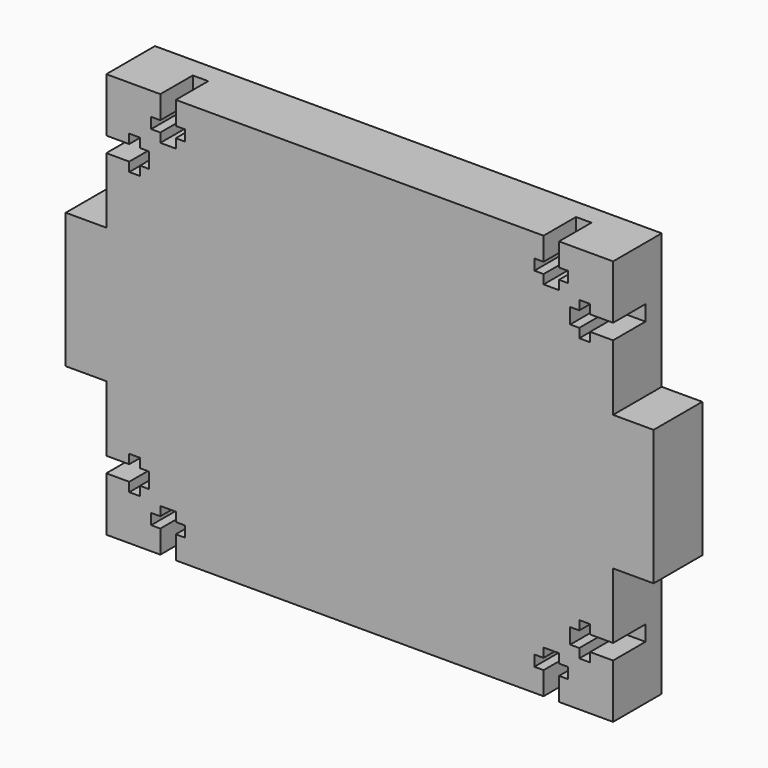
from build123d import *

# Parameters (mm, degrees)
F0_W     = 6
F0_H     = 20
F1_DEPTH = 9
F2_DEPTH = 6


with BuildPart() as f1:
    # F0 (on Front) → F1 (new body)
    with BuildSketch(Plane.XZ):
        Polygon((-37.5, -22), (-37.5, -30), (-29.5, -30), (-29.5, -26.6002), (-30.857, -26.6002), (-30.857, -25), (-29.5, -25), (-29.5, -23.65), (-27.214, -23.65), (-27.214, -25), (-25.857, -25), (-25.857, -26.6002), (-27.214, -26.6002), (-27.214, -30), (27.214, -30), (27.214, -26.6002), (25.857, -26.6002), (25.857, -25), (27.214, -25), (27.214, -23.65), (29.5, -23.65), (29.5, -25), (30.857, -25), (30.857, -26.6002), (29.5, -26.6002), (29.5, -30), (37.5, -30), (37.5, -22), (34.1002, -22), (34.1002, -23.357), (32.5, -23.357), (32.5, -22), (31.15, -22), (31.15, -19.714), (32.5, -19.714), (32.5, -18.357), (34.1002, -18.357), (34.1002, -19.714), (37.5, -19.714), (37.5, -10), (37.5, 10), (37.5, 19.714), (34.1002, 19.714), (34.1002, 18.357), (32.5, 18.357), (32.5, 19.714), (31.15, 19.714), (31.15, 22), (32.5, 22), (32.5, 23.357), (34.1002, 23.357), (34.1002, 22), (37.5, 22), (37.5, 30), (29.5, 30), (29.5, 26.6002), (30.857, 26.6002), (30.857, 25), (29.5, 25), (29.5, 23.65), (27.214, 23.65), (27.214, 25), (25.857, 25), (25.857, 26.6002), (27.214, 26.6002), (27.214, 30), (-27.214, 30), (-27.214, 26.6002), (-25.857, 26.6002), (-25.857, 25), (-27.214, 25), (-27.214, 23.65), (-29.5, 23.65), (-29.5, 25), (-30.857, 25), (-30.857, 26.6002), (-29.5, 26.6002), (-29.5, 30), (-37.5, 30), (-37.5, 22), (-34.1002, 22), (-34.1002, 23.357), (-32.5, 23.357), (-32.5, 22), (-31.15, 22), (-31.15, 19.714), (-32.5, 19.714), (-32.5, 18.357), (-34.1002, 18.357), (-34.1002, 19.714), (-37.5, 19.714), (-37.5, 10), (-37.5, -10), (-37.5, -19.714), (-34.1002, -19.714), (-34.1002, -18.357), (-32.5, -18.357), (-32.5, -19.714), (-31.15, -19.714), (-31.15, -22), (-32.5, -22), (-32.5, -23.357), (-34.1002, -23.357), (-34.1002, -22), align=None)
        Polygon((-29.5, -26.6002), (-29.5, -30), (-27.214, -30), (-27.214, -26.6002), (-25.857, -26.6002), (-25.857, -25), (-27.214, -25), (-27.214, -23.65), (-29.5, -23.65), (-29.5, -25), (-30.857, -25), (-30.857, -26.6002), align=None)
        Polygon((-37.5, -19.714), (-37.5, -22), (-34.1002, -22), (-34.1002, -23.357), (-32.5, -23.357), (-32.5, -22), (-31.15, -22), (-31.15, -19.714), (-32.5, -19.714), (-32.5, -18.357), (-34.1002, -18.357), (-34.1002, -19.714), align=None)
        Polygon((27.214, -26.6002), (27.214, -30), (29.5, -30), (29.5, -26.6002), (30.857, -26.6002), (30.857, -25), (29.5, -25), (29.5, -23.65), (27.214, -23.65), (27.214, -25), (25.857, -25), (25.857, -26.6002), align=None)
        with Locations((-40.5, 0)):
            Rectangle(F0_W, F0_H)
        Polygon((-37.5, 22), (-37.5, 19.714), (-34.1002, 19.714), (-34.1002, 18.357), (-32.5, 18.357), (-32.5, 19.714), (-31.15, 19.714), (-31.15, 22), (-32.5, 22), (-32.5, 23.357), (-34.1002, 23.357), (-34.1002, 22), align=None)
        Polygon((34.1002, -22), (37.5, -22), (37.5, -19.714), (34.1002, -19.714), (34.1002, -18.357), (32.5, -18.357), (32.5, -19.714), (31.15, -19.714), (31.15, -22), (32.5, -22), (32.5, -23.357), (34.1002, -23.357), align=None)
        with Locations((40.5, 0)):
            Rectangle(F0_W, F0_H)
        Polygon((-27.214, 30), (-29.5, 30), (-29.5, 26.6002), (-30.857, 26.6002), (-30.857, 25), (-29.5, 25), (-29.5, 23.65), (-27.214, 23.65), (-27.214, 25), (-25.857, 25), (-25.857, 26.6002), (-27.214, 26.6002), align=None)
        Polygon((34.1002, 19.714), (37.5, 19.714), (37.5, 22), (34.1002, 22), (34.1002, 23.357), (32.5, 23.357), (32.5, 22), (31.15, 22), (31.15, 19.714), (32.5, 19.714), (32.5, 18.357), (34.1002, 18.357), align=None)
        Polygon((29.5, 30), (27.214, 30), (27.214, 26.6002), (25.857, 26.6002), (25.857, 25), (27.214, 25), (27.214, 23.65), (29.5, 23.65), (29.5, 25), (30.857, 25), (30.857, 26.6002), (29.5, 26.6002), align=None)
    extrude(amount=-F1_DEPTH)

    # F0 (on Front) → F2 (cut)
    with BuildSketch(Plane.XZ):
        Polygon((-37.5, 22), (-37.5, 19.714), (-34.1002, 19.714), (-34.1002, 18.357), (-32.5, 18.357), (-32.5, 19.714), (-31.15, 19.714), (-31.15, 22), (-32.5, 22), (-32.5, 23.357), (-34.1002, 23.357), (-34.1002, 22), align=None)
        Polygon((-27.214, 30), (-29.5, 30), (-29.5, 26.6002), (-30.857, 26.6002), (-30.857, 25), (-29.5, 25), (-29.5, 23.65), (-27.214, 23.65), (-27.214, 25), (-25.857, 25), (-25.857, 26.6002), (-27.214, 26.6002), align=None)
        Polygon((-37.5, -19.714), (-37.5, -22), (-34.1002, -22), (-34.1002, -23.357), (-32.5, -23.357), (-32.5, -22), (-31.15, -22), (-31.15, -19.714), (-32.5, -19.714), (-32.5, -18.357), (-34.1002, -18.357), (-34.1002, -19.714), align=None)
        Polygon((-29.5, -26.6002), (-29.5, -30), (-27.214, -30), (-27.214, -26.6002), (-25.857, -26.6002), (-25.857, -25), (-27.214, -25), (-27.214, -23.65), (-29.5, -23.65), (-29.5, -25), (-30.857, -25), (-30.857, -26.6002), align=None)
        Polygon((27.214, -26.6002), (27.214, -30), (29.5, -30), (29.5, -26.6002), (30.857, -26.6002), (30.857, -25), (29.5, -25), (29.5, -23.65), (27.214, -23.65), (27.214, -25), (25.857, -25), (25.857, -26.6002), align=None)
        Polygon((34.1002, -22), (37.5, -22), (37.5, -19.714), (34.1002, -19.714), (34.1002, -18.357), (32.5, -18.357), (32.5, -19.714), (31.15, -19.714), (31.15, -22), (32.5, -22), (32.5, -23.357), (34.1002, -23.357), align=None)
        Polygon((34.1002, 19.714), (37.5, 19.714), (37.5, 22), (34.1002, 22), (34.1002, 23.357), (32.5, 23.357), (32.5, 22), (31.15, 22), (31.15, 19.714), (32.5, 19.714), (32.5, 18.357), (34.1002, 18.357), align=None)
        Polygon((29.5, 30), (27.214, 30), (27.214, 26.6002), (25.857, 26.6002), (25.857, 25), (27.214, 25), (27.214, 23.65), (29.5, 23.65), (29.5, 25), (30.857, 25), (30.857, 26.6002), (29.5, 26.6002), align=None)
    extrude(amount=-F2_DEPTH, mode=Mode.SUBTRACT)


solid = f1.part
